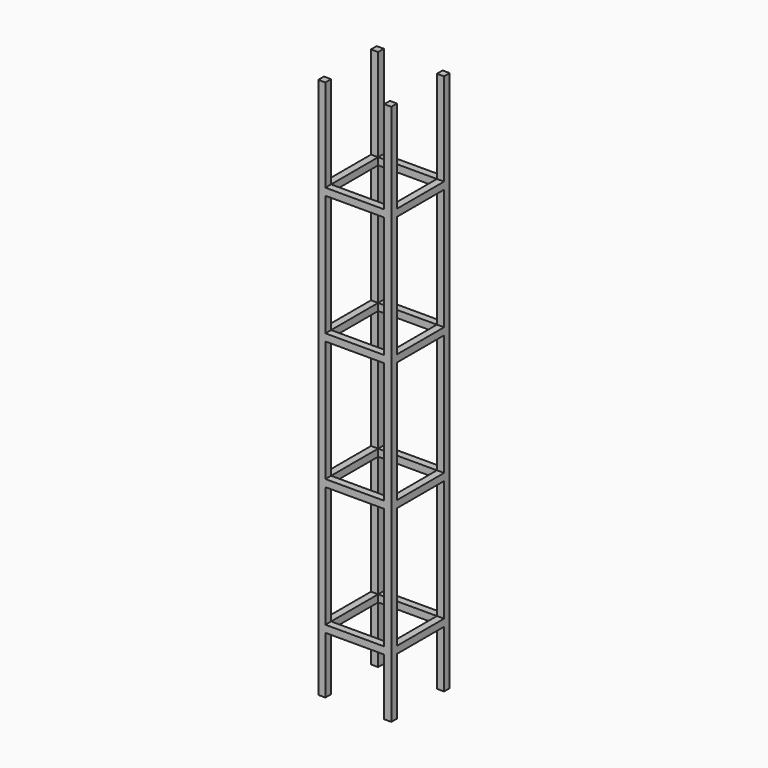
from build123d import *

# Parameters (mm, degrees)
F0_W     = 260.35
F0_H     = 260.35
F0_W_2   = 209.55
F0_H_2   = 209.55
F1_DEPTH = 1930.4
F2_W     = 209.55
F2_H     = 330.2
F2_H_2   = 431.8
F2_H_3   = 203.2
F3_DEPTH = 260.35
F4_W     = 209.55
F4_H     = 203.2
F4_H_2   = 431.8
F4_H_3   = 330.2
F5_DEPTH = 260.35


with BuildPart() as f1:
    # F0 (on Top) → F1 (new body)
    with BuildSketch(Plane.XY):
        with Locations((69.85, 69.85)):
            Rectangle(F0_W, F0_H)
        with Locations((69.85, 69.85)):
            Rectangle(F0_W_2, F0_H_2, mode=Mode.SUBTRACT)
    extrude(amount=F1_DEPTH)

    # F2 (on face) → F3 (cut)
    with BuildSketch(Plane.YZ.offset(200.025)):
        with Locations((69.85, 1765.3)):
            Rectangle(F2_W, F2_H)
        with Locations((69.85, 1358.9)):
            Rectangle(F2_W, F2_H_2)
        with Locations((69.85, 901.7)):
            Rectangle(F2_W, F2_H_2)
        with Locations((69.85, 444.5)):
            Rectangle(F2_W, F2_H_2)
        with Locations((69.85, 101.6)):
            Rectangle(F2_W, F2_H_3)
    extrude(amount=-F3_DEPTH, mode=Mode.SUBTRACT)

    # F4 (on face) → F5 (cut)
    with BuildSketch(Plane(origin=(0, 200.025, 0), x_dir=(-1, 0, 0), z_dir=(0, 1, 0))):
        with Locations((-69.85, 101.6)):
            Rectangle(F4_W, F4_H)
        with Locations((-69.85, 444.5)):
            Rectangle(F4_W, F4_H_2)
        with Locations((-69.85, 901.7)):
            Rectangle(F4_W, F4_H_2)
        with Locations((-69.85, 1358.9)):
            Rectangle(F4_W, F4_H_2)
        with Locations((-69.85, 1765.3)):
            Rectangle(F4_W, F4_H_3)
    extrude(amount=-F5_DEPTH, mode=Mode.SUBTRACT)


solid = f1.part
